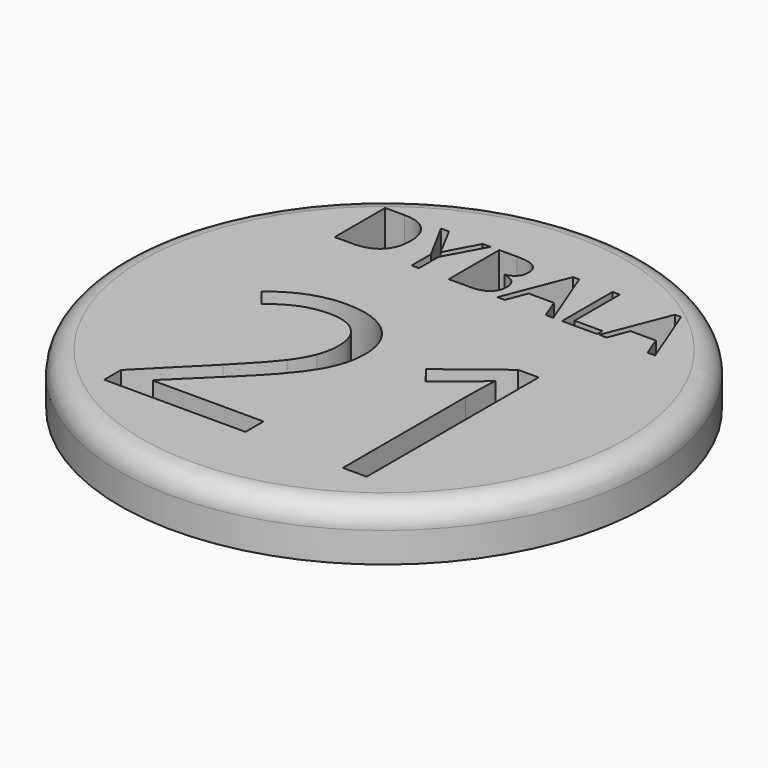
from build123d import *

# Parameters (mm, degrees)
F0_R     = 12.125
F1_DEPTH = 2.38
F2_R     = 1


with BuildPart() as f1:
    # F0 (on Top) → F1 (new body)
    with BuildSketch(Plane.XY):
        Circle(F0_R)
        with BuildLine():
            Line((0.1066171413, -7.0534729545), (0.1066171413, -8.0929240212))
            Line((0.1066171413, -8.0929240212), (-6.3829287074, -8.0929240212))
            Line((-6.3829287074, -8.0929240212), (-6.3829287074, -7.1269476661))
            Line((-6.3829287074, -7.1269476661), (-3.7832205302, -4.5142733634))
            add(Edge.make_bspline(
                [(-3.7832205302, -4.5142733634), (-2.5946590195, -3.3105847061), (-2.216480357, -2.7973422356)],
                knots=[0, 0, 0, 1, 1, 1], degree=2))
            add(Edge.make_bspline(
                [(-2.216480357, -2.7973422356), (-1.8383016945, -2.284099765), (-1.6492123632, -1.7978700561)],
                knots=[0, 0, 0, 1, 1, 1], degree=2))
            add(Edge.make_bspline(
                [(-1.6492123632, -1.7978700561), (-1.460123032, -1.3116403472), (-1.460123032, -0.7519359267)],
                knots=[0, 0, 0, 1, 1, 1], degree=2))
            add(Edge.make_bspline(
                [(-1.460123032, -0.7519359267), (-1.460123032, 0.0389977332), (-1.9398696781, 0.501456212)],
                knots=[0, 0, 0, 1, 1, 1], degree=2))
            add(Edge.make_bspline(
                [(-1.9398696781, 0.501456212), (-2.4196163243, 0.9639146907), (-3.2710585702, 0.9639146907)],
                knots=[0, 0, 0, 1, 1, 1], degree=2))
            add(Edge.make_bspline(
                [(-3.2710585702, 0.9639146907), (-3.8847885139, 0.9639146907), (-4.4358488507, 0.7607787234)],
                knots=[0, 0, 0, 1, 1, 1], degree=2))
            add(Edge.make_bspline(
                [(-4.4358488507, 0.7607787234), (-4.9869091875, 0.5576427561), (-5.6611477172, 0.0238705867)],
                knots=[0, 0, 0, 1, 1, 1], degree=2))
            Line((-5.6611477172, 0.0238705867), (-6.2554284726, 0.7867109745))
            add(Edge.make_bspline(
                [(-6.2554284726, 0.7867109745), (-4.8918242666, 1.9212469621), (-3.2840246957, 1.9212469621)],
                knots=[0, 0, 0, 1, 1, 1], degree=2))
            add(Edge.make_bspline(
                [(-3.2840246957, 1.9212469621), (-1.8923272177, 1.9212469621), (-1.1024740683, 1.2091905661)],
                knots=[0, 0, 0, 1, 1, 1], degree=2))
            add(Edge.make_bspline(
                [(-1.1024740683, 1.2091905661), (-0.3126209189, 0.4971341701), (-0.3126209189, -0.7043934662)],
                knots=[0, 0, 0, 1, 1, 1], degree=2))
            add(Edge.make_bspline(
                [(-0.3126209189, -0.7043934662), (-0.3126209189, -1.6444375702), (-0.8399100255, -2.5628714648)],
                knots=[0, 0, 0, 1, 1, 1], degree=2))
            add(Edge.make_bspline(
                [(-0.8399100255, -2.5628714648), (-1.367199132, -3.4813053595), (-2.8107611124, -4.8859689631)],
                knots=[0, 0, 0, 1, 1, 1], degree=2))
            Line((-2.8107611124, -4.8859689631), (-4.971782041, -6.9994474313))
            Line((-4.971782041, -6.9994474313), (-4.971782041, -7.0534729545))
            Line((-4.971782041, -7.0534729545), (0.1066171413, -7.0534729545))
        make_face(mode=Mode.SUBTRACT)
        with BuildLine():
            Line((5.6755680743, 1.7807806017), (5.6755680743, -8.0929240212))
            Line((5.6755680743, -8.0929240212), (4.5820914845, -8.0929240212))
            Line((4.5820914845, -8.0929240212), (4.5820914845, -1.0566398776))
            add(Edge.make_bspline(
                [(4.5820914845, -1.0566398776), (4.5820914845, -0.1771043596), (4.6361170077, 0.6051852165)],
                knots=[0, 0, 0, 1, 1, 1], degree=2))
            add(Edge.make_bspline(
                [(4.6361170077, 0.6051852165), (4.4956506473, 0.4625578352), (4.3195274416, 0.3080448388)],
                knots=[0, 0, 0, 1, 1, 1], degree=2))
            add(Edge.make_bspline(
                [(4.3195274416, 0.3080448388), (4.1434042359, 0.1535318424), (2.7128083812, -1.0090974172)],
                knots=[0, 0, 0, 1, 1, 1], degree=2))
            Line((2.7128083812, -1.0090974172), (2.1185276258, -0.2397739666))
            Line((2.1185276258, -0.2397739666), (4.7312019285, 1.7807806017))
            Line((4.7312019285, 1.7807806017), (5.6755680743, 1.7807806017))
        make_face(mode=Mode.SUBTRACT)
        with BuildLine():
            add(Edge.make_bspline(
                [(-4.9071200765, 8.249331423), (-4.5322706665, 7.874482013), (-4.5322706665, 7.201593995)],
                knots=[0, 0, 0, 1, 1, 1], degree=2))
            add(Edge.make_bspline(
                [(-4.5322706665, 7.201593995), (-4.5322706665, 6.4836351758), (-4.9220378769, 6.1037073656)],
                knots=[0, 0, 0, 1, 1, 1], degree=2))
            add(Edge.make_bspline(
                [(-4.9220378769, 6.1037073656), (-5.3118050873, 5.7237795554), (-6.0437295069, 5.7237795554)],
                knots=[0, 0, 0, 1, 1, 1], degree=2))
            Line((-6.0437295069, 5.7237795554), (-6.8473863284, 5.7237795554))
            Line((-6.8473863284, 5.7237795554), (-6.8473863284, 8.6241808331))
            Line((-6.8473863284, 8.6241808331), (-5.9586663047, 8.6241808331))
            add(Edge.make_bspline(
                [(-5.9586663047, 8.6241808331), (-5.2819694865, 8.6241808331), (-4.9071200765, 8.249331423)],
                knots=[0, 0, 0, 1, 1, 1], degree=2))
        make_face(mode=Mode.SUBTRACT)
        Polygon((-3.9152450499, 8.6241808331), (-3.1471370294, 7.1736627942), (-2.3739506087, 8.6241808331), (-2.0089405989, 8.6241808331), (-2.9770106248, 6.8486451855), (-2.9770106248, 5.7237795554), (-3.3178982339, 5.7237795554), (-3.3178982339, 6.8327751851), (-4.2840638598, 8.6241808331), align=None, mode=Mode.SUBTRACT)
        with BuildLine():
            Line((-1.6102861882, 5.7237795554), (-1.6102861882, 8.6241808331))
            Line((-1.6102861882, 8.6241808331), (-0.7907593663, 8.6241808331))
            add(Edge.make_bspline(
                [(-0.7907593663, 8.6241808331), (-0.2137261508, 8.6241808331), (0.0443200561, 8.4515152284)],
                knots=[0, 0, 0, 1, 1, 1], degree=2))
            add(Edge.make_bspline(
                [(0.0443200561, 8.4515152284), (0.302366263, 8.2788496238), (0.302366263, 7.9062220138)],
                knots=[0, 0, 0, 1, 1, 1], degree=2))
            add(Edge.make_bspline(
                [(0.302366263, 7.9062220138), (0.302366263, 7.6478584069), (0.1585840591, 7.4802712024)],
                knots=[0, 0, 0, 1, 1, 1], degree=2))
            add(Edge.make_bspline(
                [(0.1585840591, 7.4802712024), (0.0148018553, 7.312683998), (-0.2613361521, 7.2631695966)],
                knots=[0, 0, 0, 1, 1, 1], degree=2))
            Line((-0.2613361521, 7.2631695966), (-0.2613361521, 7.2434907961))
            add(Edge.make_bspline(
                [(-0.2613361521, 7.2434907961), (0.3994906656, 7.1304963931), (0.3994906656, 6.5490195775)],
                knots=[0, 0, 0, 1, 1, 1], degree=2))
            add(Edge.make_bspline(
                [(0.3994906656, 6.5490195775), (0.3994906656, 6.1605219671), (0.1366834585, 5.9421507613)],
                knots=[0, 0, 0, 1, 1, 1], degree=2))
            add(Edge.make_bspline(
                [(0.1366834585, 5.9421507613), (-0.1261237485, 5.7237795554), (-0.5984149611, 5.7237795554)],
                knots=[0, 0, 0, 1, 1, 1], degree=2))
            Line((-0.5984149611, 5.7237795554), (-1.6102861882, 5.7237795554))
        make_face(mode=Mode.SUBTRACT)
        Polygon((3.1945151404, 5.7237795554), (2.8453751311, 5.7237795554), (2.4841739214, 6.6461439801), (1.3218550903, 6.6461439801), (0.9650974807, 5.7237795554), (0.6235750716, 5.7237795554), (1.7700239023, 8.6362420334), (2.0537795099, 8.6362420334), align=None, mode=Mode.SUBTRACT)
        Polygon((5.2100051944, 5.7237795554), (3.5931695511, 5.7237795554), (3.5931695511, 8.6241808331), (3.9302483601, 8.6241808331), (3.9302483601, 6.0291183636), (5.2100051944, 6.0291183636), align=None, mode=Mode.SUBTRACT)
        Polygon((7.8742608657, 5.7237795554), (7.5251208564, 5.7237795554), (7.1639196467, 6.6461439801), (6.0016008156, 6.6461439801), (5.644843206, 5.7237795554), (5.3033207969, 5.7237795554), (6.4497696276, 8.6362420334), (6.7335252352, 8.6362420334), align=None, mode=Mode.SUBTRACT)
    extrude(amount=F1_DEPTH)

    # F2
    f2_edges = [f1.edges().sort_by_distance(p)[0] for p in [
        (-12.125, 0, 2.38),
    ]]
    fillet(f2_edges, radius=F2_R)


solid = f1.part
